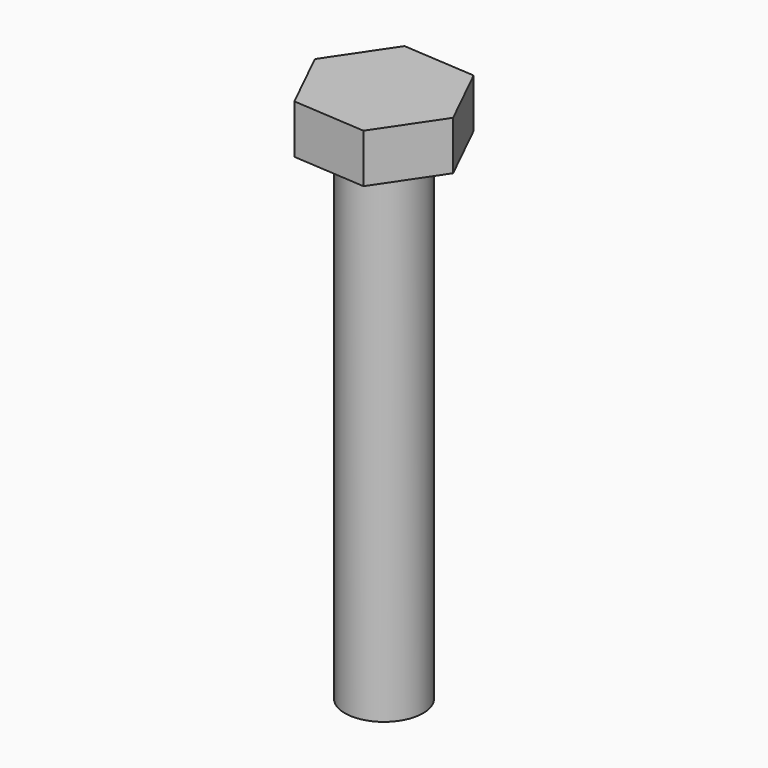
from build123d import *

# Parameters (mm, degrees)
F0_R     = 4
F1_DEPTH = 50
F2_R     = 4
F3_DEPTH = 5


with BuildPart() as f1:
    # F0 (on Top) → F1 (new body)
    with BuildSketch(Plane.XY):
        Circle(F0_R)
    extrude(amount=F1_DEPTH)

    # F2 (on face) → F3 (join)
    with BuildSketch(Plane.XY.offset(50)):
        Polygon((3.295037, -6.743594), (7.487643, -0.518211), (4.192605, 6.225383), (-3.295037, 6.743594), (-7.487643, 0.518211), (-4.192605, -6.225383), align=None)
        Circle(F2_R, mode=Mode.SUBTRACT)
        Circle(F2_R)
    extrude(amount=F3_DEPTH)


solid = f1.part
